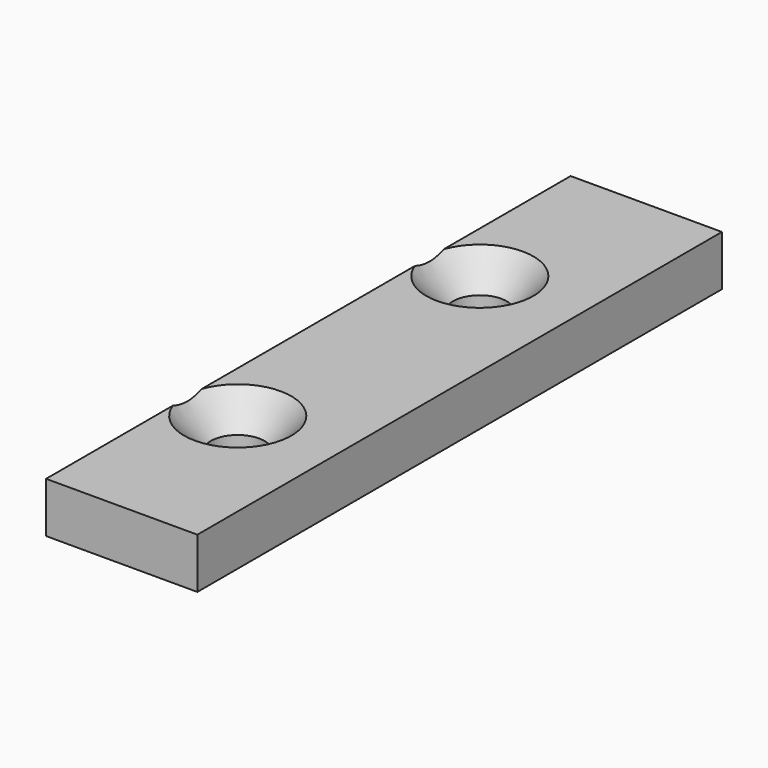
from build123d import *

# Parameters (mm, degrees)
F0_W           = 19.05
F0_H           = 82.55
F0_R           = 3.571875
F1_DEPTH       = 6.35
F2_D           = 6.7564
F2_CSINK_D     = 13.4874
F2_CSINK_ANGLE = 82


with BuildPart() as f1:
    # F0 (on Top) → F1 (new body)
    with BuildSketch(Plane.XY):
        Rectangle(F0_W, F0_H)
        with Locations((-3.175, -19.05)):
            Circle(F0_R, mode=Mode.SUBTRACT)
        with Locations((-3.175, 19.05)):
            Circle(F0_R, mode=Mode.SUBTRACT)
        with Locations((-3.175, 19.05)):
            Circle(F0_R)
        with Locations((-3.175, -19.05)):
            Circle(F0_R)
    extrude(amount=-F1_DEPTH)

    # F2 (through all)
    with Locations(Plane.XY):
        with Locations((-3.175, 19.05), (-3.175, -19.05)):
            CounterSinkHole(F2_D / 2, F2_CSINK_D / 2, counter_sink_angle=F2_CSINK_ANGLE)


solid = f1.part
